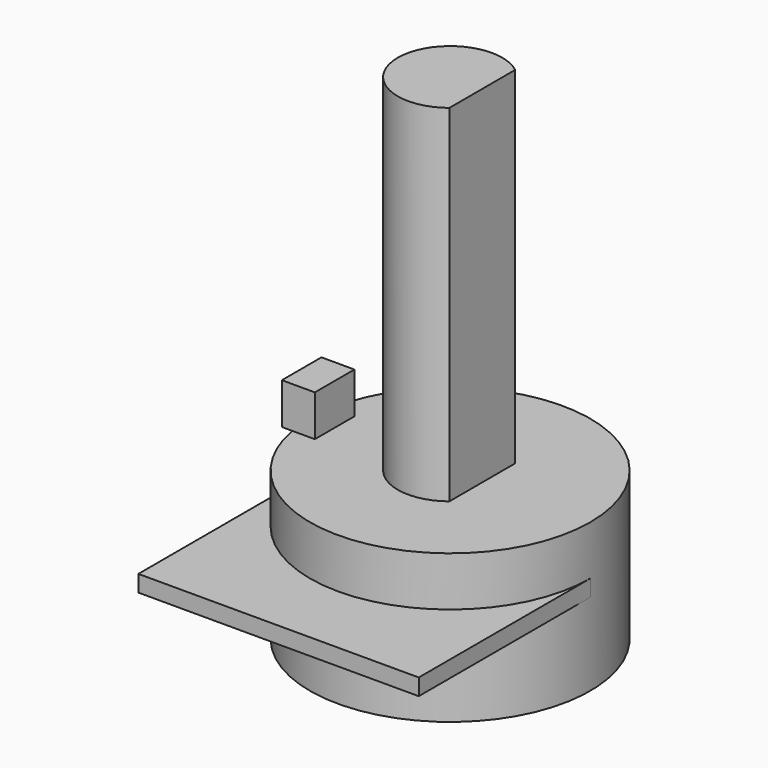
from build123d import *

# Parameters (mm, degrees)
SKETCH067_R               = 8.5
PAD009_DEPTH              = 9
SKETCH068_W               = 17
SKETCH068_H               = 13
PAD010_DEPTH              = 1
SKETCH069_W               = 2
SKETCH069_H               = 3
PAD011_DEPTH              = 2.5
PAD012_DEPTH              = 21
FUSION002_PLACEMENT_ANGLE = 180


with BuildPart() as body009:
    # Sketch067 → Pad009 (new body)
    with BuildSketch(Plane.XY):
        with Locations((43.911242, 2.762661)):
            Circle(SKETCH067_R)
    extrude(amount=PAD009_DEPTH)

    # Sketch068 → Pad010 (join)
    with BuildSketch(Plane.XY.offset(3)):
        with Locations((43.911242, -3.737339)):
            Rectangle(SKETCH068_W, SKETCH068_H)
    extrude(amount=PAD010_DEPTH)

    # Sketch069 → Pad011 (join)
    with BuildSketch(Plane.XY):
        with Locations((51.911242, 2.762661)):
            Rectangle(SKETCH069_W, SKETCH069_H)
    extrude(amount=-PAD011_DEPTH)


with BuildPart() as pot:
    # Sketch070 → Pad012 (new body)
    with BuildSketch(Plane.XY):
        with BuildLine():
            Line((41.956765, 0.26313), (41.959666, 5.256243))
            ThreePointArc((41.956765, 0.26313), (47.080742, 2.75671), (41.959666, 5.256243))
        make_face()
    extrude(amount=PAD012_DEPTH)


with BuildPart() as pot_1:
    # Body010 placement: moved
    add(pot.part.moved(Location((0, 0, -21))))

    # Fusion002: union Body009
    add(body009.part)


with BuildPart() as pot_2:
    # Fusion002 placement: moved
    add(pot_1.part.moved(Location((88, 0, 14))).rotate(Axis((88, 0, 14), (0, 1, 0)), FUSION002_PLACEMENT_ANGLE))


solid = pot_2.part
